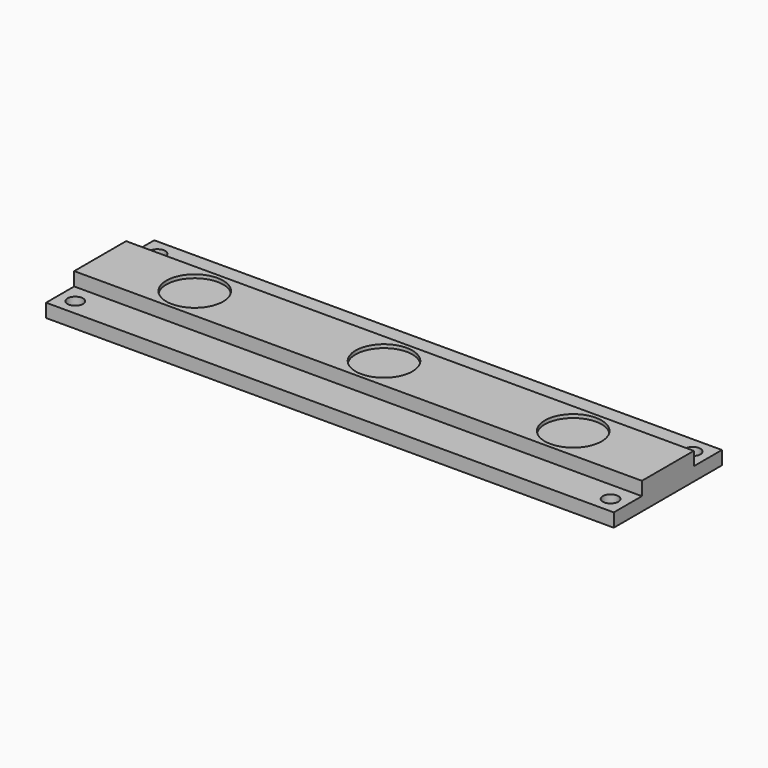
from build123d import *

# Parameters (mm, degrees)
F0_R     = 1.8161
F1_DEPTH = 3.175
F2_W     = 133.35
F2_H     = 15.24
F3_DEPTH = 3.175
F4_R     = 6.6675
F5_DEPTH = 0.8128


with BuildPart() as f1:
    # F0 (on Top) → F1 (new body)
    with BuildSketch(Plane.XY):
        Polygon((51.882015, -8.216515), (51.882015, 0), (-81.467985, 0), (-81.467985, -8.216515), (-81.467985, -24.110759), (-81.467985, -31.75), (51.882015, -31.75), (51.882015, -24.110759), align=None)
        with Locations((-77.657985, -27.94)):
            Circle(F0_R, mode=Mode.SUBTRACT)
        with Locations((48.072015, -27.94)):
            Circle(F0_R, mode=Mode.SUBTRACT)
        with Locations((-77.657985, -3.81)):
            Circle(F0_R, mode=Mode.SUBTRACT)
        with Locations((48.072015, -3.81)):
            Circle(F0_R, mode=Mode.SUBTRACT)
    extrude(amount=F1_DEPTH)

    # F2 (on face) → F3 (join)
    with BuildSketch(Plane.XY.offset(3.175)):
        with Locations((-14.792985, -15.875)):
            Rectangle(F2_W, F2_H)
    extrude(amount=F3_DEPTH)

    # F4 (on face) → F5 (cut)
    with BuildSketch(Plane.XY.offset(6.35)):
        with Locations((-59.242985, -15.875)):
            Circle(F4_R)
        with Locations((-14.792985, -15.875)):
            Circle(F4_R)
        with Locations((29.657015, -15.875)):
            Circle(F4_R)
    extrude(amount=-F5_DEPTH, mode=Mode.SUBTRACT)


solid = f1.part
